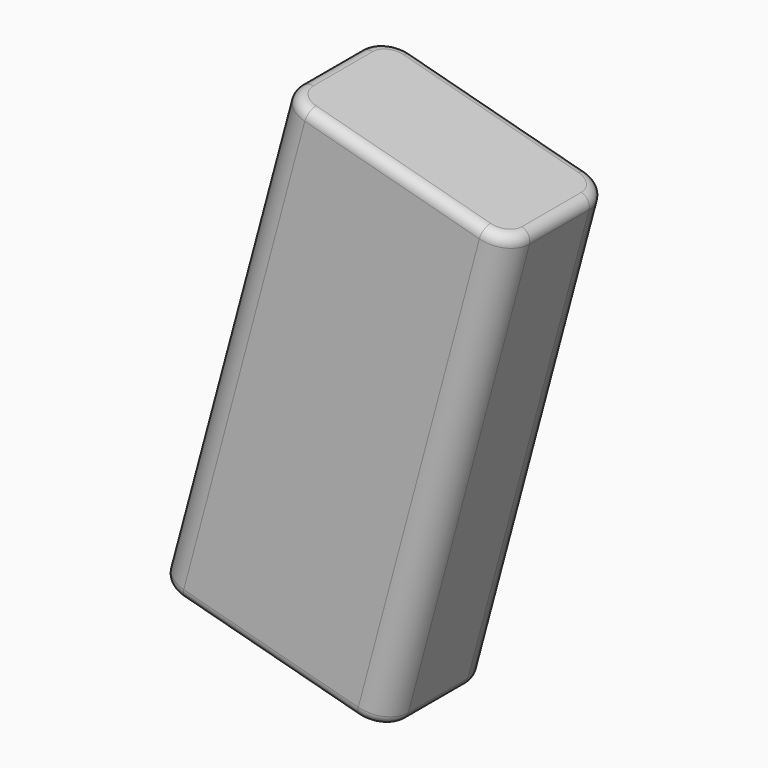
from build123d import *

# Parameters (mm, degrees)
SKETCH_W             = 33.5
SKETCH_H             = 69
PAD_DEPTH            = 9.25
FILLET_R             = 4
FILLET001_R          = 1.5
BODY_PLACEMENT_ANGLE = 15


with BuildPart() as part:
    # Sketch → Pad (new body, symmetric)
    with BuildSketch(Plane.XZ):
        Rectangle(SKETCH_W, SKETCH_H)
    extrude(amount=PAD_DEPTH, both=True)

    # Fillet
    fillet_edges = [part.edges().sort_by_distance(p)[0] for p in [
        (-16.75, -9.25, 0),
        (-16.75, 9.25, 0),
        (16.75, -9.25, 0),
        (16.75, 9.25, 0),
    ]]
    fillet(fillet_edges, radius=FILLET_R)

    # Fillet001
    fillet001_edges = [part.edges().sort_by_distance(p)[0] for p in [
        (-16.75, 0, 34.5),
        (-15.578427, 8.078427, 34.5),
        (-15.578427, -8.078427, 34.5),
        (0, 9.25, 34.5),
        (0, -9.25, 34.5),
        (15.578427, 8.078427, 34.5),
        (15.578427, -8.078427, 34.5),
        (16.75, 0, 34.5),
        (16.75, 0, -34.5),
        (15.578427, 8.078427, -34.5),
        (15.578427, -8.078427, -34.5),
        (0, 9.25, -34.5),
        (0, -9.25, -34.5),
        (-15.578427, 8.078427, -34.5),
        (-15.578427, -8.078427, -34.5),
        (-16.75, 0, -34.5),
    ]]
    fillet(fillet001_edges, radius=FILLET001_R)


with BuildPart() as part_1:
    # Body placement: moved
    add(part.part.moved(Location((-42.5512320173, 0, -60.1655412245))).rotate(Axis((-42.5512320173, 0, -60.1655412245), (0, 1, 0)), BODY_PLACEMENT_ANGLE))


solid = part_1.part
